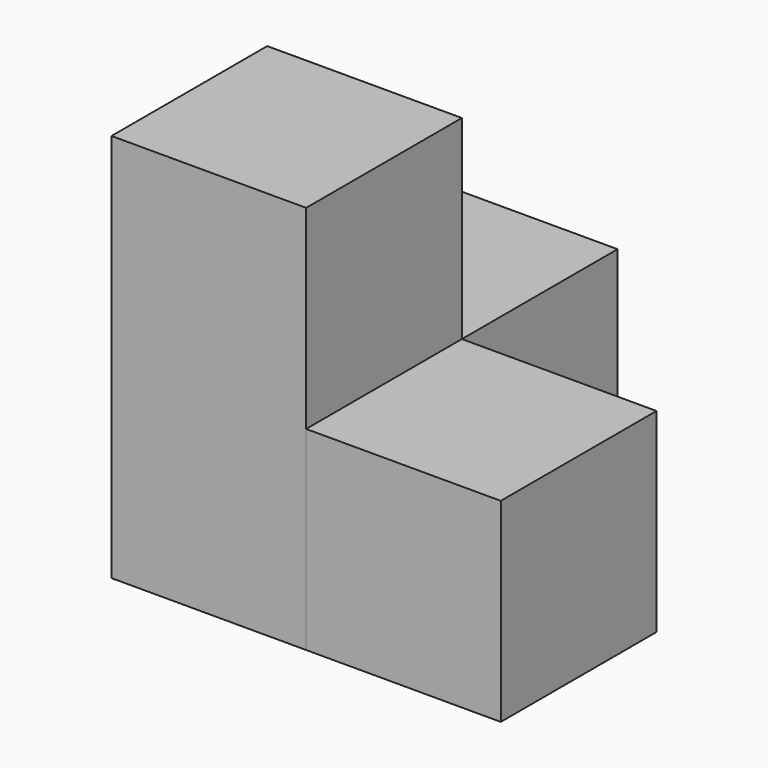
from build123d import *

# Parameters (mm, degrees)
BOX_W        = 10
BOX_H        = 10
BOX_DEPTH    = 20
BOX001_W     = 10
BOX001_H     = 10
BOX001_DEPTH = 10
BOX002_W     = 10
BOX002_H     = 10
BOX002_DEPTH = 10


with BuildPart() as cub:
    # Box → Box (new body)
    with BuildSketch(Plane.XY):
        with Locations((5, 5)):
            Rectangle(BOX_W, BOX_H)
    extrude(amount=BOX_DEPTH)


with BuildPart() as cub001:
    # Box001 → Box001 (new body)
    with BuildSketch(Plane(origin=(0, 10, 0), x_dir=(1, 0, 0), z_dir=(0, 0, 1))):
        with Locations((5, 5)):
            Rectangle(BOX001_W, BOX001_H)
    extrude(amount=BOX001_DEPTH)


with BuildPart() as cub002:
    # Box002 → Box002 (new body)
    with BuildSketch(Plane(origin=(10, 0, 0), x_dir=(1, 0, 0), z_dir=(0, 0, 1))):
        with Locations((5, 5)):
            Rectangle(BOX002_W, BOX002_H)
    extrude(amount=BOX002_DEPTH)


solid = Compound([cub.part, cub001.part, cub002.part])
